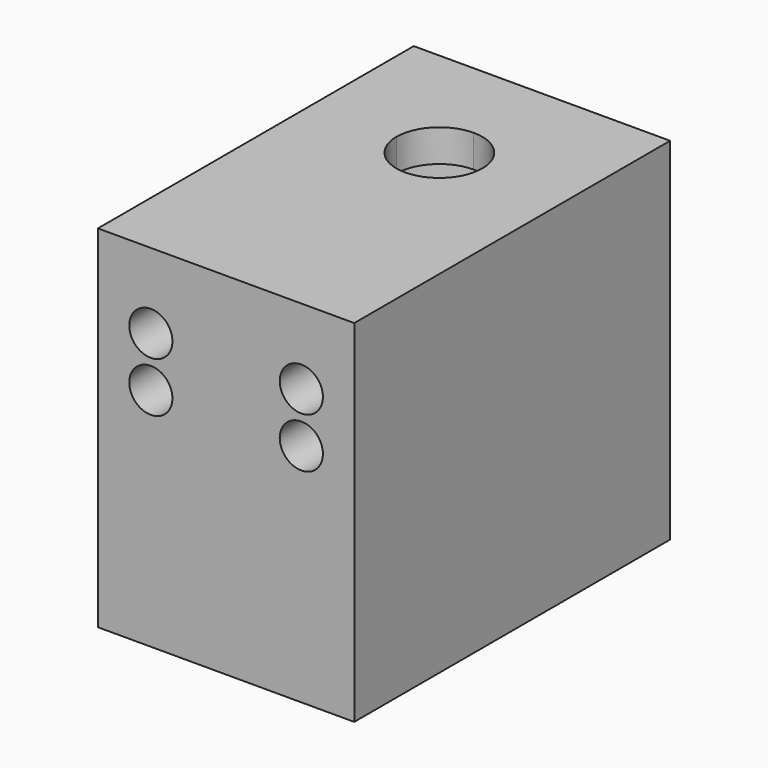
from build123d import *

# Parameters (mm, degrees)
F1_DEPTH = 70
F3_DEPTH = 63.55
F4_DEPTH = 6.45
F6_D     = 8.6106
F6_DEPTH = 20
F6_TIP   = 2.5868852231


with BuildPart() as f1:
    # F0 (on Top) → F1 (new body)
    with BuildSketch(Plane.XY):
        with BuildLine():
            Line((0, -39.35), (25.55, -39.35))
            Line((25.55, -39.35), (25.55, 13.8))
            Line((25.55, 13.8), (19.1, 13.8))
            ThreePointArc((19.1, 13.8), (13.5057395207, 0.2942604793), (0, -5.3))
            Line((0, -5.3), (0, -39.35))
        make_face()
        with BuildLine():
            Line((-25.55, -39.35), (0, -39.35))
            Line((0, -39.35), (0, -5.3))
            ThreePointArc((0, -5.3), (-13.5057395207, 0.2942604793), (-19.1, 13.8))
            Line((-19.1, 13.8), (-25.55, 13.8))
            Line((-25.55, 13.8), (-25.55, -39.35))
        make_face()
        with BuildLine():
            Line((19.1, 13.8), (25.55, 13.8))
            Line((25.55, 13.8), (25.55, 39.35))
            Line((25.55, 39.35), (0, 39.35))
            Line((0, 39.35), (0, 32.9))
            ThreePointArc((0, 32.9), (13.5057395207, 27.3057395207), (19.1, 13.8))
        make_face()
        with BuildLine():
            Line((-25.55, 39.35), (-25.55, 13.8))
            Line((-25.55, 13.8), (-19.1, 13.8))
            ThreePointArc((-19.1, 13.8), (-13.5057395207, 27.3057395207), (0, 32.9))
            Line((0, 32.9), (0, 39.35))
            Line((0, 39.35), (-25.55, 39.35))
        make_face()
        with BuildLine():
            Line((0, 13.8), (19.1, 13.8))
            ThreePointArc((19.1, 13.8), (13.5057395207, 27.3057395207), (0, 32.9))
            Line((0, 32.9), (0, 13.8))
        make_face()
        with BuildLine():
            Line((0, 13.8), (0, -5.3))
            ThreePointArc((0, -5.3), (13.5057395207, 0.2942604793), (19.1, 13.8))
            Line((19.1, 13.8), (0, 13.8))
        make_face()
        with BuildLine():
            ThreePointArc((-19.1, 13.8), (-13.5057395207, 0.2942604793), (0, -5.3))
            Line((0, -5.3), (0, 13.8))
            Line((0, 13.8), (-19.1, 13.8))
        make_face()
        with BuildLine():
            Line((-19.1, 13.8), (0, 13.8))
            Line((0, 13.8), (0, 32.9))
            ThreePointArc((0, 32.9), (-13.5057395207, 27.3057395207), (-19.1, 13.8))
        make_face()
    extrude(amount=F1_DEPTH)

    # F0 (on Top) → F3 (cut)
    with BuildSketch(Plane.XY):
        with BuildLine():
            Line((-19.1, 13.8), (0, 13.8))
            Line((0, 13.8), (0, 32.9))
            ThreePointArc((0, 32.9), (-13.5057395207, 27.3057395207), (-19.1, 13.8))
        make_face()
        with BuildLine():
            Line((0, 13.8), (19.1, 13.8))
            ThreePointArc((19.1, 13.8), (13.5057395207, 27.3057395207), (0, 32.9))
            Line((0, 32.9), (0, 13.8))
        make_face()
        with BuildLine():
            Line((0, 13.8), (0, -5.3))
            ThreePointArc((0, -5.3), (13.5057395207, 0.2942604793), (19.1, 13.8))
            Line((19.1, 13.8), (0, 13.8))
        make_face()
        with BuildLine():
            ThreePointArc((-19.1, 13.8), (-13.5057395207, 0.2942604793), (0, -5.3))
            Line((0, -5.3), (0, 13.8))
            Line((0, 13.8), (-19.1, 13.8))
        make_face()
    extrude(amount=F3_DEPTH, mode=Mode.SUBTRACT)

    # F2 (on face) → F4 (cut)
    with BuildSketch(Plane.XY.offset(70)):
        with BuildLine():
            Line((0, 5.25), (0, 13.8))
            Line((0, 13.8), (-8.55, 13.8))
            ThreePointArc((-8.55, 13.8), (-6.0457629791, 7.7542370209), (0, 5.25))
        make_face()
        with BuildLine():
            Line((8.55, 13.8), (0, 13.8))
            Line((0, 13.8), (0, 5.25))
            ThreePointArc((0, 5.25), (6.0457629791, 7.7542370209), (8.55, 13.8))
        make_face()
        with BuildLine():
            ThreePointArc((8.55, 13.8), (6.0457629791, 19.8457629791), (0, 22.35))
            Line((0, 22.35), (0, 13.8))
            Line((0, 13.8), (8.55, 13.8))
        make_face()
        with BuildLine():
            Line((0, 13.8), (0, 22.35))
            ThreePointArc((0, 22.35), (-6.0457629791, 19.8457629791), (-8.55, 13.8))
            Line((-8.55, 13.8), (0, 13.8))
        make_face()
    extrude(amount=-F4_DEPTH, mode=Mode.SUBTRACT)

    # F6
    with Locations(Plane.XZ.offset(39.35)):
        with Locations((-15, 55), (15, 55), (15, 45), (-15, 45)):
            Hole(F6_D / 2, depth=F6_DEPTH)
            with Locations((0, 0, -(F6_DEPTH + F6_TIP / 2))):  # 118° drill point
                Cone(0, F6_D / 2, F6_TIP, mode=Mode.SUBTRACT)


solid = f1.part
